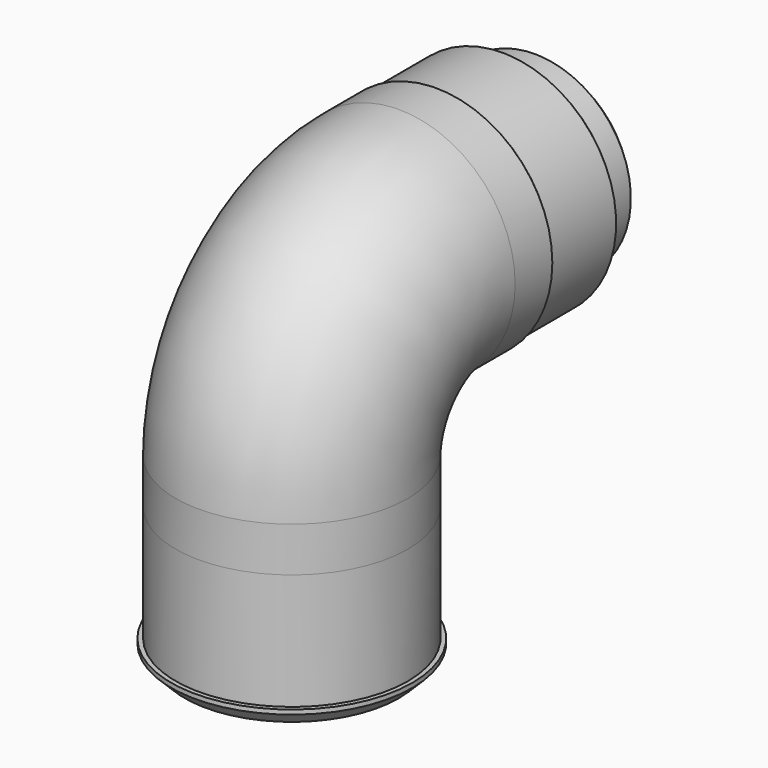
from build123d import *

# Parameters (mm, degrees)
F4_R      = 26
F4_R_2    = 23
F5_DEPTH  = 30
F6_R      = 27
F6_R_2    = 26
F7_DEPTH  = 4
F8_SIZE   = 3
F10_R     = 26
F10_R_2   = 23
F12_R     = 25.4
F12_R_2   = 17.75
F13_DEPTH = 19
F14_R     = 21.5
F14_R_2   = 17.75
F15_DEPTH = 10
F16_SIZE  = 5.25
F17_SIZE  = 0.6
F18_SIZE  = 2
F19_SIZE  = 1
F20_W     = 9.5
F20_H     = 2.5
F21_DEPTH = 10
F22_R     = 2.15
F23_DEPTH = 2.5
F24_R     = 2


with BuildPart() as f5:
    # F4 (on Top) → F5 (new body)
    with BuildSketch(Plane.XY):
        Circle(F4_R)
        Circle(F4_R_2, mode=Mode.SUBTRACT)
    extrude(amount=F5_DEPTH)

    # F6 (on face) → F7 (join)
    with BuildSketch(Plane(origin=(0, 0, 0), x_dir=(1, 0, 0), z_dir=(0, 0, -1))):
        Circle(F6_R)
        Circle(F6_R_2, mode=Mode.SUBTRACT)
    extrude(amount=-F7_DEPTH)

    # F8
    f8_edges = [f5.edges().sort_by_distance(p)[0] for p in [
        (-27, 0, 0),
    ]]
    chamfer(f8_edges, length=F8_SIZE)


with BuildPart() as f11:
    # F11: sweep along a path in F9
    with BuildLine(Plane.YZ) as f11_path:
        Line((41, 70), (30, 70))
        ThreePointArc((30, 70), (8.7867965644, 61.2132034356), (0, 40))
        Line((0, 40), (0, 30))
    # F10 (on face) → F11 (sweep)
    with BuildSketch(Plane.XY.offset(30)):
        Circle(F10_R)
        Circle(F10_R_2, mode=Mode.SUBTRACT)
    sweep(path=f11_path.line)

    # F17
    f17_edges = [f11.edges().sort_by_distance(p)[0] for p in [
        (-26, 41, 70),
    ]]
    chamfer(f17_edges, length=F17_SIZE)


with BuildPart() as f13:
    # F12 (on face) → F13 (new body)
    with BuildSketch(Plane(origin=(0, 41, 0), x_dir=(-1, 0, 0), z_dir=(0, 1, 0))):
        with Locations((0, 70)):
            Circle(F12_R)
        with Locations((0, 70)):
            Circle(F12_R_2, mode=Mode.SUBTRACT)
    extrude(amount=F13_DEPTH)

    # F14 (on face) → F15 (join)
    with BuildSketch(Plane(origin=(0, 60, 0), x_dir=(-1, 0, 0), z_dir=(0, 1, 0))):
        with Locations((0, 70)):
            Circle(F14_R)
        with Locations((0, 70)):
            Circle(F14_R_2, mode=Mode.SUBTRACT)
    extrude(amount=F15_DEPTH)

    # F16
    f16_edges = [f13.edges().sort_by_distance(p)[0] for p in [
        (17.75, 41, 70),
    ]]
    chamfer(f16_edges, length=F16_SIZE)

    # F18
    f18_edges = [f13.edges().sort_by_distance(p)[0] for p in [
        (21.5, 70, 70),
    ]]
    chamfer(f18_edges, length=F18_SIZE)

    # F19
    f19_edges = [f13.edges().sort_by_distance(p)[0] for p in [
        (25.4, 60, 70),
    ]]
    chamfer(f19_edges, length=F19_SIZE)

    # F20 (on face) → F21 (join)
    with BuildSketch(Plane.XZ.offset(-41)):
        with Locations((-30.1192234804, 70)):
            Rectangle(F20_W, F20_H)
    extrude(amount=-F21_DEPTH)

    # F22 (on face) → F23 (cut, through all)
    with BuildSketch(Plane.XY.offset(71.25)):
        with Locations((-30.3692234804, 46)):
            Circle(F22_R)
    extrude(amount=-F23_DEPTH, mode=Mode.SUBTRACT)

    # F24
    f24_edges = [f13.edges().sort_by_distance(p)[0] for p in [
        (-34.869223, 51, 70),
        (-34.869223, 41, 70),
    ]]
    fillet(f24_edges, radius=F24_R)


solid = Compound([f5.part, f11.part, f13.part])
